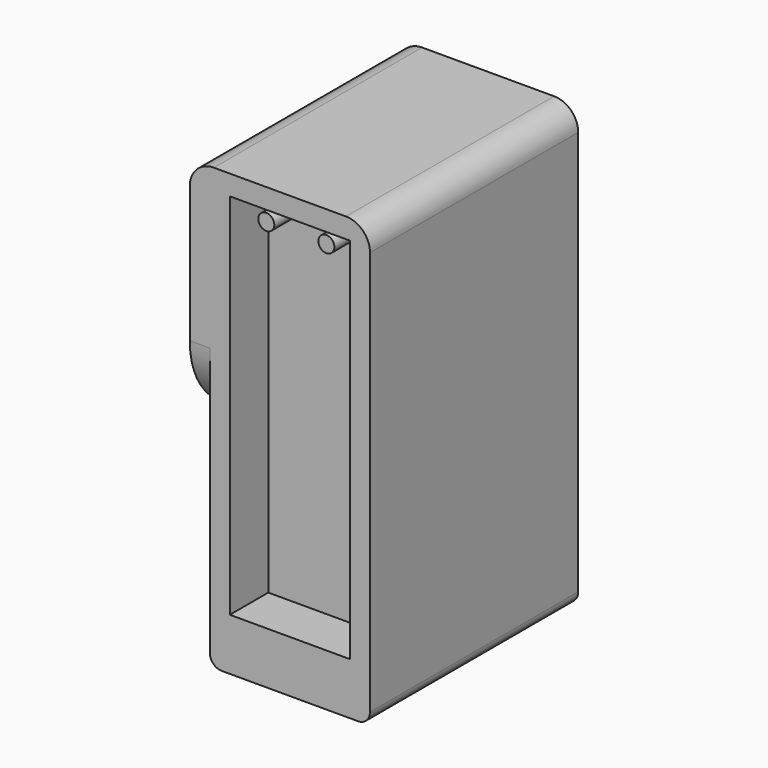
from build123d import *

# Parameters (mm, degrees)
SKETCH025_W     = 45
SKETCH025_H     = 65
PAD010_DEPTH    = 110
FILLET009_R     = 6
SKETCH026_W     = 30
SKETCH026_H     = 92
POCKET013_DEPTH = 12
SKETCH027_R     = 2
PAD011_DEPTH    = 10
SKETCH028_W     = 65
SKETCH028_H     = 50
POCKET014_DEPTH = 5
FILLET010_R     = 20
FILLET011_R     = 3


with BuildPart() as part:
    # Sketch025 → Pad010 (new body)
    with BuildSketch(Plane.XY):
        Rectangle(SKETCH025_W, SKETCH025_H)
    extrude(amount=PAD010_DEPTH)

    # Fillet009
    fillet009_edges = [part.edges().sort_by_distance(p)[0] for p in [
        (-22.5, 0, 110),
        (22.5, 0, 110),
    ]]
    fillet(fillet009_edges, radius=FILLET009_R)

    # Sketch026 (on Face2 of Fillet009) → Pocket013 (cut)
    with BuildSketch(Plane.XZ.offset(32.5)):
        with Locations((2.5, 59)):
            Rectangle(SKETCH026_W, SKETCH026_H)
    pocket013 = extrude(amount=-POCKET013_DEPTH, mode=Mode.SUBTRACT)

    # Mirrored001: Pocket013 across XZ
    add(pocket013.mirror(Plane.XZ), mode=Mode.SUBTRACT)

    # Sketch027 (on Face17 of Mirrored001) → Pad011 (join)
    with BuildSketch(Plane.XZ.offset(20.5)):
        with Locations((-5, 101)):
            Circle(SKETCH027_R)
        with Locations((10, 101)):
            Circle(SKETCH027_R)
    extrude(amount=PAD011_DEPTH)

    # Sketch028 (on Face1 of Pad011) → Pocket014 (cut)
    with BuildSketch(Plane(origin=(-22.5, 0, 0), x_dir=(0, -1, 0), z_dir=(-1, 0, 0))):
        with Locations((0, 25)):
            Rectangle(SKETCH028_W, SKETCH028_H)
    extrude(amount=-POCKET014_DEPTH, mode=Mode.SUBTRACT)

    # Fillet010
    fillet010_edges = [part.edges().sort_by_distance(p)[0] for p in [
        (-20, 32.5, 50),
        (-20, -32.5, 50),
    ]]
    fillet(fillet010_edges, radius=FILLET010_R)

    # Fillet011
    fillet011_edges = [part.edges().sort_by_distance(p)[0] for p in [
        (-17.5, 0, 0),
        (22.5, 0, 0),
    ]]
    fillet(fillet011_edges, radius=FILLET011_R)


solid = part.part
